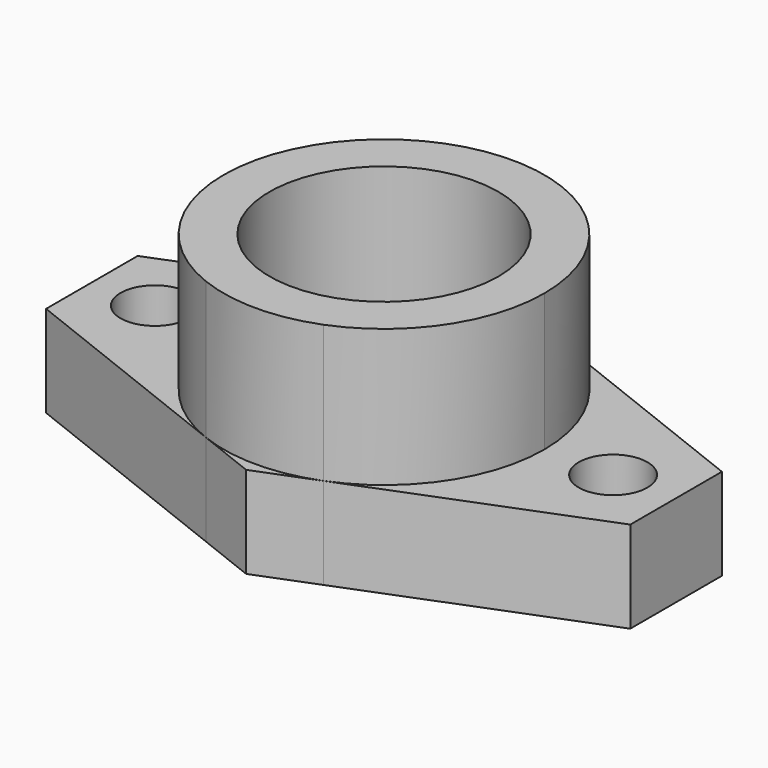
from build123d import *

# Parameters (mm, degrees)
F0_R     = 20
F1_DEPTH = 40
F0_R_2   = 6
F2_DEPTH = 16


with BuildPart() as f1:
    # F0 (on Top) → F1 (new body)
    with BuildSketch(Plane.XY):
        with BuildLine():
            ThreePointArc((10.26457, -26.050693), (23.14528, -15.757412), (28, 0))
            ThreePointArc((28, 0), (23.14528, 15.757412), (10.26457, 26.050693))
            ThreePointArc((10.26457, 26.050693), (0, 28), (-10.26457, 26.050693))
            ThreePointArc((-10.26457, 26.050693), (-28, 0), (-10.26457, -26.050693))
            ThreePointArc((-10.26457, -26.050693), (0, -28), (10.26457, -26.050693))
        make_face()
        Circle(F0_R, mode=Mode.SUBTRACT)
    extrude(amount=F1_DEPTH)

    # F0 (on Top) → F2 (join)
    with BuildSketch(Plane.XY):
        with BuildLine():
            ThreePointArc((10.26457, 26.050693), (23.14528, 15.757412), (28, 0))
            ThreePointArc((28, 0), (23.14528, -15.757412), (10.26457, -26.050693))
            Line((10.26457, -26.050693), (51, -10))
            Line((51, -10), (51, 10))
            Line((51, 10), (10.26457, 26.050693))
        make_face()
        with Locations((40, 0)):
            Circle(F0_R_2, mode=Mode.SUBTRACT)
        with BuildLine():
            ThreePointArc((-10.26457, 26.050693), (0, 28), (10.26457, 26.050693))
            Line((10.26457, 26.050693), (0, 30.095169))
            Line((0, 30.095169), (-10.26457, 26.050693))
        make_face()
        with BuildLine():
            Line((0, -30.095169), (10.26457, -26.050693))
            ThreePointArc((10.26457, -26.050693), (0, -28), (-10.26457, -26.050693))
            Line((-10.26457, -26.050693), (0, -30.095169))
        make_face()
        with BuildLine():
            ThreePointArc((-10.26457, -26.050693), (-28, 0), (-10.26457, 26.050693))
            Line((-10.26457, 26.050693), (-51, 10))
            Line((-51, 10), (-51, -10))
            Line((-51, -10), (-10.26457, -26.050693))
        make_face()
        with Locations((-40, 0)):
            Circle(F0_R_2, mode=Mode.SUBTRACT)
    extrude(amount=F2_DEPTH)


solid = f1.part
